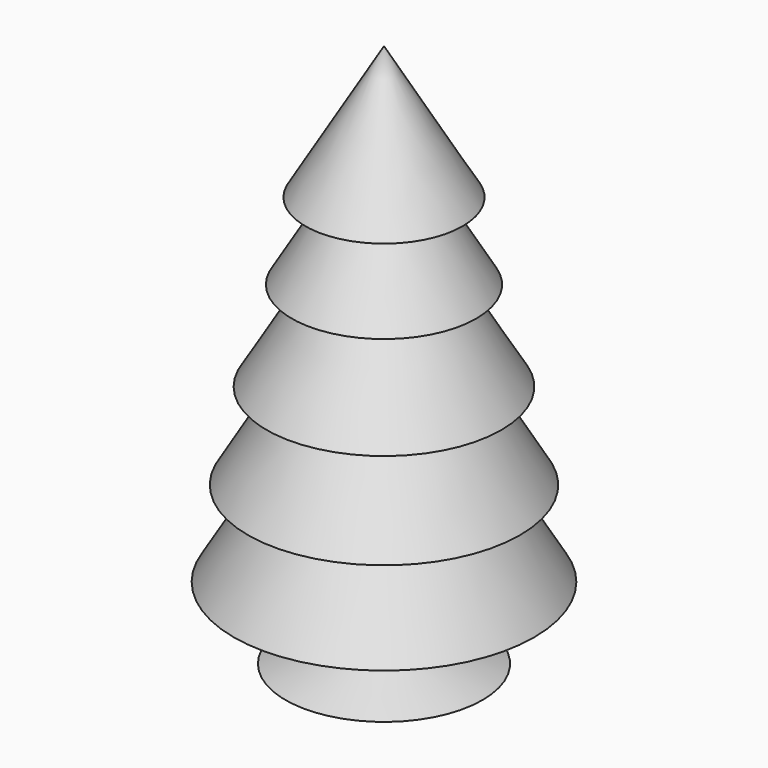
from build123d import *

# Parameters (mm, degrees)
F0_W = 5.6183873676
F0_H = 8.2852373922


with BuildPart() as f1:
    # F0 (on Front) → F1 (revolve)
    with BuildSketch(Plane.XZ):
        Polygon((15.6066315249, 28.4040719271), (0, 54.8312999308), (0, -38.8467890119), (5.6183873676, -38.8467890119), (29.8360655374, -38.8467890119), (15.6066315249, -14.7516153408), (27.0295340755, -21.8909281701), (13.1205966132, 1.6615380376), (23.3266572773, -4.7172487474), (9.5442305374, 18.6209926483), (18.3223614144, 13.1346618221), (5.6183873676, 34.6467234194), align=None)
        with Locations((2.8091936838, -42.989407708)):
            Rectangle(F0_W, F0_H)
        Polygon((5.6183873676, -47.1320264041), (0, -47.1320264041), (0, -53.1665943563), (19.5603128523, -53.1665943563), align=None)
    revolve(axis=Axis((0, 0, 7.9922554594), (0, 0, 1)))


solid = f1.part
